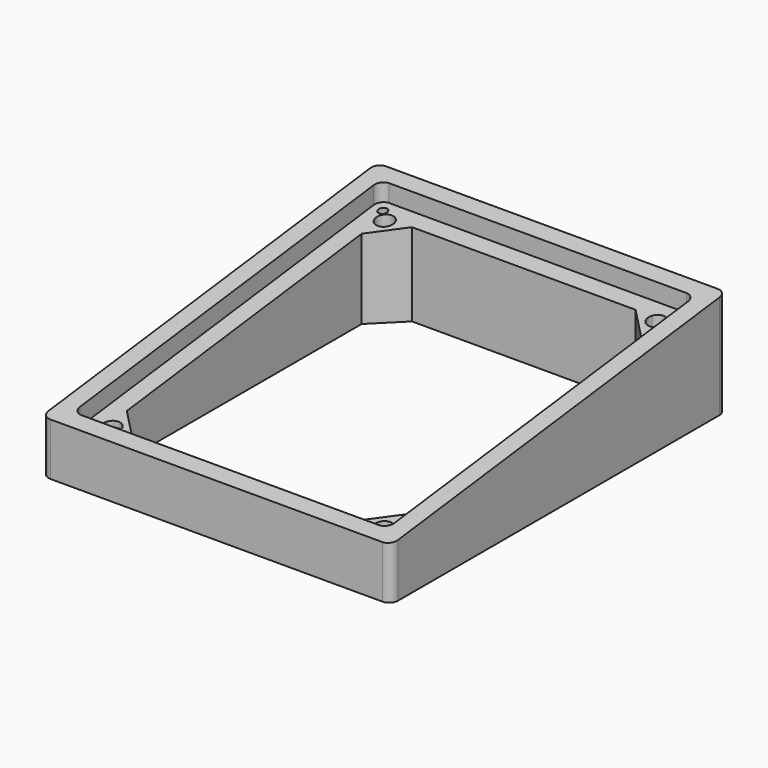
from build123d import *

# Parameters (mm, degrees)
F0_W     = 127
F0_H     = 152.4
F0_R     = 1.5875
F1_DEPTH = 76.2
F3_DEPTH = 133.858
F4_DEPTH = 12.7
F6_START = -6.35
F6_DEPTH = 114.3
F8_D     = 3.175
F8_DEPTH = 10.16
F8_TIP   = 0.9538662327
F9_R     = 3.175


with BuildPart() as f1:
    # F0 (on Top) → F1 (new body)
    with BuildSketch(Plane.XY):
        with Locations((-4.7115e-06, 0.8819496805)):
            Rectangle(F0_W, F0_H)
        with BuildLine():
            ThreePointArc((-57.1500047115, 67.5569496805), (-56.2200687418, 69.8020137107), (-53.9750047115, 70.7319496805))
            Line((-53.9750047115, 70.7319496805), (53.9749952885, 70.7319496805))
            ThreePointArc((53.9749952885, 70.7319496805), (56.2200593188, 69.8020137107), (57.1499952885, 67.5569496805))
            Line((57.1499952885, 67.5569496805), (57.1499952885, -65.7930503195))
            ThreePointArc((57.1499952885, -65.7930503195), (56.2200593188, -68.0381143498), (53.9749952885, -68.9680503195))
            Line((53.9749952885, -68.9680503195), (-53.9750047115, -68.9680503195))
            ThreePointArc((-53.9750047115, -68.9680503195), (-56.2200687418, -68.0381143498), (-57.1500047115, -65.7930503195))
            Line((-57.1500047115, -65.7930503195), (-57.1500047115, 67.5569496805))
        make_face(mode=Mode.SUBTRACT)
        with BuildLine():
            Line((53.9749952885, 70.7319496805), (-53.9750047115, 70.7319496805))
            ThreePointArc((-53.9750047115, 70.7319496805), (-56.2200687418, 69.8020137107), (-57.1500047115, 67.5569496805))
            Line((-57.1500047115, 67.5569496805), (-57.1500047115, -65.7930503195))
            ThreePointArc((-57.1500047115, -65.7930503195), (-56.2200687418, -68.0381143498), (-53.9750047115, -68.9680503195))
            Line((-53.9750047115, -68.9680503195), (53.9749952885, -68.9680503195))
            ThreePointArc((53.9749952885, -68.9680503195), (56.2200593188, -68.0381143498), (57.1499952885, -65.7930503195))
            Line((57.1499952885, -65.7930503195), (57.1499952885, 67.5569496805))
            ThreePointArc((57.1499952885, 67.5569496805), (56.2200593188, 69.8020137107), (53.9749952885, 70.7319496805))
        make_face()
        with Locations((-53.0410580749, -64.8591036829)):
            Circle(F0_R, mode=Mode.SUBTRACT)
        with Locations((53.0410486519, -64.8591036829)):
            Circle(F0_R, mode=Mode.SUBTRACT)
        with BuildLine():
            Line((-46.5388031962, 64.3819496805), (-40.6400047115, 64.3819496805))
            Line((-40.6400047115, 64.3819496805), (40.6399952885, 64.3819496805))
            Line((40.6399952885, 64.3819496805), (46.5387937732, 64.3819496805))
            ThreePointArc((46.5387937732, 64.3819496805), (50.1081956465, 66.0487397971), (52.5521041545, 62.9590585465))
            ThreePointArc((52.5521041545, 62.9590585465), (52.0787984702, 61.2912837341), (50.7999952885, 60.1207481652))
            Line((50.7999952885, 60.1207481652), (50.7999952885, 54.2219496805))
            Line((50.7999952885, 54.2219496805), (50.7999952885, -52.4580503195))
            Line((50.7999952885, -52.4580503195), (50.7999952885, -58.3568488042))
            ThreePointArc((50.7999952885, -58.3568488042), (52.0787984702, -59.5273843732), (52.5521041545, -61.1951591855))
            ThreePointArc((52.5521041545, -61.1951591855), (50.1081956465, -64.2848404361), (46.5387937732, -62.6180503195))
            Line((46.5387937732, -62.6180503195), (40.6399952885, -62.6180503195))
            Line((40.6399952885, -62.6180503195), (-40.6400047115, -62.6180503195))
            Line((-40.6400047115, -62.6180503195), (-46.5388031962, -62.6180503195))
            ThreePointArc((-46.5388031962, -62.6180503195), (-51.6221776078, -63.4402232158), (-50.8000047115, -58.3568488042))
            Line((-50.8000047115, -58.3568488042), (-50.8000047115, -52.4580503195))
            Line((-50.8000047115, -52.4580503195), (-50.8000047115, 54.2219496805))
            Line((-50.8000047115, 54.2219496805), (-50.8000047115, 60.1207481652))
            ThreePointArc((-50.8000047115, 60.1207481652), (-51.6221776078, 65.2041225768), (-46.5388031962, 64.3819496805))
        make_face(mode=Mode.SUBTRACT)
        with Locations((-53.0410580749, 66.6230030439)):
            Circle(F0_R, mode=Mode.SUBTRACT)
        with Locations((53.0410486519, 66.6230030439)):
            Circle(F0_R, mode=Mode.SUBTRACT)
        with BuildLine():
            Line((-50.8000047115, 54.2219496805), (-40.6400047115, 64.3819496805))
            Line((-40.6400047115, 64.3819496805), (-46.5388031962, 64.3819496805))
            ThreePointArc((-46.5388031962, 64.3819496805), (-46.2874323269, 63.6901500385), (-46.2021135775, 62.9590585465))
            ThreePointArc((-46.2021135775, 62.9590585465), (-47.7093387651, 60.2573642308), (-50.8000047115, 60.1207481652))
            Line((-50.8000047115, 60.1207481652), (-50.8000047115, 54.2219496805))
        make_face()
        with BuildLine():
            Line((46.5387937732, 64.3819496805), (40.6399952885, 64.3819496805))
            Line((40.6399952885, 64.3819496805), (50.7999952885, 54.2219496805))
            Line((50.7999952885, 54.2219496805), (50.7999952885, 60.1207481652))
            ThreePointArc((50.7999952885, 60.1207481652), (47.1320401243, 60.7139945162), (46.5387937732, 64.3819496805))
        make_face()
        with BuildLine():
            Line((50.7999952885, -58.3568488042), (50.7999952885, -52.4580503195))
            Line((50.7999952885, -52.4580503195), (40.6399952885, -62.6180503195))
            Line((40.6399952885, -62.6180503195), (46.5387937732, -62.6180503195))
            ThreePointArc((46.5387937732, -62.6180503195), (47.1320401243, -58.9500951553), (50.7999952885, -58.3568488042))
        make_face()
        with BuildLine():
            Line((-40.6400047115, -62.6180503195), (-50.8000047115, -52.4580503195))
            Line((-50.8000047115, -52.4580503195), (-50.8000047115, -58.3568488042))
            ThreePointArc((-50.8000047115, -58.3568488042), (-47.7093387651, -58.4934648699), (-46.2021135775, -61.1951591855))
            ThreePointArc((-46.2021135775, -61.1951591855), (-46.2874323269, -61.9262506775), (-46.5388031962, -62.6180503195))
            Line((-46.5388031962, -62.6180503195), (-40.6400047115, -62.6180503195))
        make_face()
        with Locations((53.0410486519, 66.6230030439)):
            Circle(F0_R)
        with Locations((-53.0410580749, 66.6230030439)):
            Circle(F0_R)
        with Locations((53.0410486519, -64.8591036829)):
            Circle(F0_R)
        with Locations((-53.0410580749, -64.8591036829)):
            Circle(F0_R)
    extrude(amount=F1_DEPTH)

    # F2 (on face) → F3 (cut)
    with BuildSketch(Plane.YZ.offset(63.4999952885)):
        Polygon((77.0819496805, 38.1), (77.1753489971, 82.9634442925), (-75.3835588694, 82.9634442925), (-75.3180503195, 19.05), align=None)
    extrude(amount=-F3_DEPTH, mode=Mode.SUBTRACT)

    # F0 (on Top) → F4 (join)
    with BuildSketch(Plane.XY):
        with BuildLine():
            ThreePointArc((-46.2021135775, 62.9590585465), (-46.2874323269, 63.6901500385), (-46.5388031962, 64.3819496805))
            Line((-46.5388031962, 64.3819496805), (-47.6250047115, 64.3819496805))
            ThreePointArc((-47.6250047115, 64.3819496805), (-48.0543198265, 64.3527903522), (-48.4757492467, 64.2658479684))
            ThreePointArc((-48.4757492467, 64.2658479684), (-47.9715759357, 63.6970424131), (-47.7896135775, 62.9590585465))
            ThreePointArc((-47.7896135775, 62.9590585465), (-48.9050817763, 61.4433599522), (-50.6839029994, 62.0576942157))
            ThreePointArc((-50.6839029994, 62.0576942157), (-50.7708453832, 61.6362647954), (-50.8000047115, 61.2069496805))
            Line((-50.8000047115, 61.2069496805), (-50.8000047115, 60.1207481652))
            ThreePointArc((-50.8000047115, 60.1207481652), (-47.7093387651, 60.2573642308), (-46.2021135775, 62.9590585465))
        make_face()
        with BuildLine():
            Line((-47.6250047115, 64.3819496805), (-46.5388031962, 64.3819496805))
            ThreePointArc((-46.5388031962, 64.3819496805), (-51.6221776078, 65.2041225768), (-50.8000047115, 60.1207481652))
            Line((-50.8000047115, 60.1207481652), (-50.8000047115, 61.2069496805))
            ThreePointArc((-50.8000047115, 61.2069496805), (-50.7708453832, 61.6362647954), (-50.6839029994, 62.0576942157))
            ThreePointArc((-50.6839029994, 62.0576942157), (-50.4996455926, 64.0815905616), (-48.4757492467, 64.2658479684))
            ThreePointArc((-48.4757492467, 64.2658479684), (-48.0543198265, 64.3527903522), (-47.6250047115, 64.3819496805))
        make_face()
        with BuildLine():
            Line((47.6249952885, 64.3819496805), (46.5387937732, 64.3819496805))
            ThreePointArc((46.5387937732, 64.3819496805), (47.1320401243, 60.7139945162), (50.7999952885, 60.1207481652))
            Line((50.7999952885, 60.1207481652), (50.7999952885, 61.2069496805))
            ThreePointArc((50.7999952885, 61.2069496805), (50.7708359603, 61.6362647954), (50.6838935764, 62.0576942157))
            ThreePointArc((50.6838935764, 62.0576942157), (48.2545721394, 61.8365265314), (48.4757398237, 64.2658479684))
            ThreePointArc((48.4757398237, 64.2658479684), (48.0543104035, 64.3527903522), (47.6249952885, 64.3819496805))
        make_face()
        with BuildLine():
            ThreePointArc((52.5521041545, 62.9590585465), (50.1081956465, 66.0487397971), (46.5387937732, 64.3819496805))
            Line((46.5387937732, 64.3819496805), (47.6249952885, 64.3819496805))
            ThreePointArc((47.6249952885, 64.3819496805), (48.0543104035, 64.3527903522), (48.4757398237, 64.2658479684))
            ThreePointArc((48.4757398237, 64.2658479684), (50.1150880212, 64.3645961883), (50.9646041545, 62.9590585465))
            ThreePointArc((50.9646041545, 62.9590585465), (50.8928027488, 62.4870267453), (50.6838935764, 62.0576942157))
            ThreePointArc((50.6838935764, 62.0576942157), (50.7708359603, 61.6362647954), (50.7999952885, 61.2069496805))
            Line((50.7999952885, 61.2069496805), (50.7999952885, 60.1207481652))
            ThreePointArc((50.7999952885, 60.1207481652), (52.0787984702, 61.2912837341), (52.5521041545, 62.9590585465))
        make_face()
        with BuildLine():
            ThreePointArc((52.5521041545, -61.1951591855), (52.0787984702, -59.5273843732), (50.7999952885, -58.3568488042))
            Line((50.7999952885, -58.3568488042), (50.7999952885, -60.0726271704))
            ThreePointArc((50.7999952885, -60.0726271704), (50.7933316222, -60.2566904654), (50.7733755129, -60.4397900414))
            ThreePointArc((50.7733755129, -60.4397900414), (50.9160546137, -60.8055597318), (50.9646041545, -61.1951591855))
            ThreePointArc((50.9646041545, -61.1951591855), (50.1898180444, -62.5588499068), (48.6217350104, -62.5914305439))
            ThreePointArc((48.6217350104, -62.5914305439), (48.4386354344, -62.6113866532), (48.2545721394, -62.6180503195))
            Line((48.2545721394, -62.6180503195), (46.5387937732, -62.6180503195))
            ThreePointArc((46.5387937732, -62.6180503195), (50.1081956465, -64.2848404361), (52.5521041545, -61.1951591855))
        make_face()
        with BuildLine():
            Line((50.7999952885, -60.0726271704), (50.7999952885, -58.3568488042))
            ThreePointArc((50.7999952885, -58.3568488042), (47.1320401243, -58.9500951553), (46.5387937732, -62.6180503195))
            Line((46.5387937732, -62.6180503195), (48.2545721394, -62.6180503195))
            ThreePointArc((48.2545721394, -62.6180503195), (48.4386354344, -62.6113866532), (48.6217350104, -62.5914305439))
            ThreePointArc((48.6217350104, -62.5914305439), (48.2545721394, -60.0726271704), (50.7733755129, -60.4397900414))
            ThreePointArc((50.7733755129, -60.4397900414), (50.7933316222, -60.2566904654), (50.7999952885, -60.0726271704))
        make_face()
        with BuildLine():
            Line((-50.8000047115, -59.4430503195), (-50.8000047115, -58.3568488042))
            ThreePointArc((-50.8000047115, -58.3568488042), (-51.6221776078, -63.4402232158), (-46.5388031962, -62.6180503195))
            Line((-46.5388031962, -62.6180503195), (-47.6250047115, -62.6180503195))
            ThreePointArc((-47.6250047115, -62.6180503195), (-48.0543198265, -62.5888909913), (-48.4757492467, -62.5019486074))
            ThreePointArc((-48.4757492467, -62.5019486074), (-50.4996455926, -62.3176912007), (-50.6839029994, -60.2937948547))
            ThreePointArc((-50.6839029994, -60.2937948547), (-50.7708453832, -59.8723654345), (-50.8000047115, -59.4430503195))
        make_face()
        with BuildLine():
            ThreePointArc((-46.2021135775, -61.1951591855), (-47.7093387651, -58.4934648699), (-50.8000047115, -58.3568488042))
            Line((-50.8000047115, -58.3568488042), (-50.8000047115, -59.4430503195))
            ThreePointArc((-50.8000047115, -59.4430503195), (-50.7708453832, -59.8723654345), (-50.6839029994, -60.2937948547))
            ThreePointArc((-50.6839029994, -60.2937948547), (-48.9050817763, -59.6794605913), (-47.7896135775, -61.1951591855))
            ThreePointArc((-47.7896135775, -61.1951591855), (-47.9715759357, -61.9331430522), (-48.4757492467, -62.5019486074))
            ThreePointArc((-48.4757492467, -62.5019486074), (-48.0543198265, -62.5888909913), (-47.6250047115, -62.6180503195))
            Line((-47.6250047115, -62.6180503195), (-46.5388031962, -62.6180503195))
            ThreePointArc((-46.5388031962, -62.6180503195), (-46.2874323269, -61.9262506775), (-46.2021135775, -61.1951591855))
        make_face()
    extrude(amount=F4_DEPTH)

    # F5 (on face) → F6 (cut)
    with BuildSketch(Plane.YZ.offset(63.4999952885).offset(F6_START)):
        Polygon((70.7319496805, 37.30625), (-68.9680503195, 19.84375), (-68.9680503195, 13.49375), (70.7319496805, 30.9562500008), align=None)
    extrude(amount=-F6_DEPTH, mode=Mode.SUBTRACT)

    # F8
    with Locations(Plane(origin=(0, -2.7218161589, 21.7745292705), x_dir=(1, 0, 0), z_dir=(0, -0.1240347346, 0.9922778767))):
        with Locations((-53.0351293557, 69.8785008825), (53.0351199327, 69.8785008825), (53.0351199327, -62.6148786171), (-53.0351293557, -62.6148786171)):
            Hole(F8_D / 2, depth=F8_DEPTH)
            with Locations((0, 0, -(F8_DEPTH + F8_TIP / 2))):  # 118° drill point
                Cone(0, F8_D / 2, F8_TIP, mode=Mode.SUBTRACT)

    # F9
    f9_edges = [f1.edges().sort_by_distance(p)[0] for p in [
        (63.499995, 77.08195, 19.05),
        (-63.500005, 77.08195, 19.05),
        (63.499995, -75.31805, 9.525),
        (-63.500005, -75.31805, 9.525),
        (-57.150005, 70.73195, 34.13125),
        (57.149995, 70.73195, 34.13125),
        (-57.150005, -68.96805, 16.66875),
        (57.149995, -68.96805, 16.66875),
    ]]
    fillet(f9_edges, radius=F9_R)


solid = f1.part
